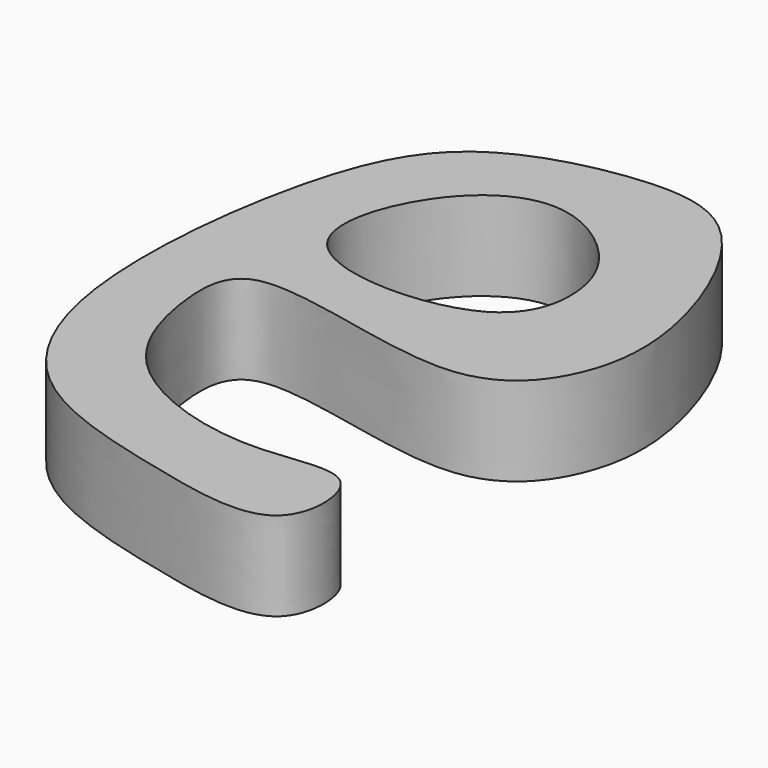
from build123d import *

# Parameters (mm, degrees)
F1_DEPTH = 5


with BuildPart() as f1:
    # F0 (on Top) → F1 (new body)
    with BuildSketch(Plane.XY):
        with BuildLine():
            add(Edge.make_bspline(
                [(-46.5268231928, 22.1876483411), (-44.2813332315, 23.0504087058), (-33.8876573121, 18.9289192772), (-29.232575576, 23.9107758023), (-28.5902317667, 30.2830139226), (-32.8120240581, 40.0167076487), (-39.2667947401, 40.616277769), (-47.3884027103, 38.4832894809), (-50.9457776527, 31.3911079066), (-52.4997572546, 16.9846848468), (-48.212834779, 7.9905696261), (-39.0142626034, 5.5862690794), (-30.4538901883, 3.6849989863), (-30.6999465022, 11.1176174703), (-36.9031392606, 8.9524111384), (-45.821727656, 11.8130316209), (-47.8613188159, 18.2854961136), (-47.7575616468, 21.7147749924), (-46.5268231928, 22.1876483411)],
                knots=[0, 0, 0, 0, 0.0800672808, 0.1343471369, 0.1915211214, 0.262694752, 0.3179805065, 0.3814606506, 0.4441828038, 0.5309331614, 0.5998467342, 0.6707125483, 0.7313866462, 0.7774719278, 0.8293750767, 0.8976204947, 0.9561156438, 1, 1, 1, 1], degree=3))
        make_face()
        with BuildLine():
            add(Edge.make_bspline(
                [(-45.9889397025, 26.7596486956), (-44.250784591, 24.7939295404), (-35.4087691483, 24.8168868749), (-34.2334002906, 30.345523785), (-35.9627599261, 33.9941943716), (-40.407826433, 36.7977707393), (-45.4962088235, 34.2321574429), (-47.4660572238, 28.4301545019), (-45.9889397025, 26.7596486956)],
                knots=[0, 0, 0, 0, 0.2167721961, 0.3657265746, 0.5042598104, 0.6552122252, 0.8157828338, 1, 1, 1, 1], degree=3))
        make_face(mode=Mode.SUBTRACT)
    extrude(amount=F1_DEPTH)


solid = f1.part
